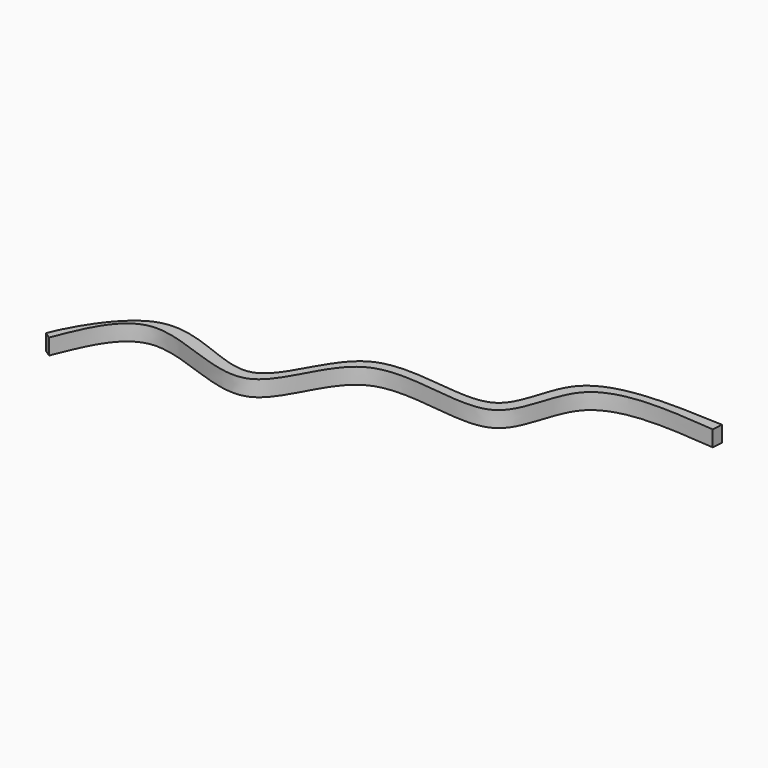
from build123d import *

# Parameters (mm, degrees)
F1_DEPTH = 30.48


with BuildPart() as f1:
    # F0 (on Top) → F1 (new body)
    with BuildSketch(Plane.XY):
        with BuildLine():
            add(Edge.make_bspline(
                [(481.5084636211, 306.9247305393), (481.0540477435, 300.1083930333), (480.5996318658, 293.2920555274), (480.1452159882, 286.4757180214)],
                knots=[0, 0, 0, 0, 20.4944030669, 20.4944030669, 20.4944030669, 20.4944030669], degree=3))
            add(Edge.make_bspline(
                [(481.5084636211, 306.9247305393), (378.0491643864, 311.9591173777), (198.4376570706, 320.6991128653), (210.8830798808, 85.7922361329), (-97.466661031, 213.4544178567), (-142.300434433, -87.3505937802), (-397.3441396481, 130.8336523218), (-492.082693465, -83.3939515448), (-494.5912659168, -93.8759967685)],
                knots=[0, 0, 0, 0, 0.1865628829, 0.3238842797, 0.501121798, 0.6595318024, 0.8320902368, 0.9862517035, 0.9862517035, 0.9862517035, 0.9862517035], degree=3))
            add(Edge.make_bspline(
                [(-494.5912659168, -93.8759967685), (-490.5014634132, -96.6025317709), (-486.4116609097, -99.3290667733), (-482.3218584061, -102.0556017756)],
                knots=[0, 0, 0, 0, 14.7459926332, 14.7459926332, 14.7459926332, 14.7459926332], degree=3))
            add(Edge.make_bspline(
                [(480.1452159882, 286.4757180214), (386.2628489575, 294.8346552335), (217.5462279681, 309.8565564284), (226.3215351058, 62.5388719607), (-92.7017168021, 196.8266446322), (-130.5999659494, -103.5964261723), (-406.8257022492, 86.6669130017), (-458.5420677451, -42.6117555871), (-482.3218584061, -102.0556017756)],
                knots=[0, 0, 0, 0, 0.1815230967, 0.3262163543, 0.5092580792, 0.6713340099, 0.8488755278, 1, 1, 1, 1], degree=3))
        make_face()
    extrude(amount=F1_DEPTH)


solid = f1.part
